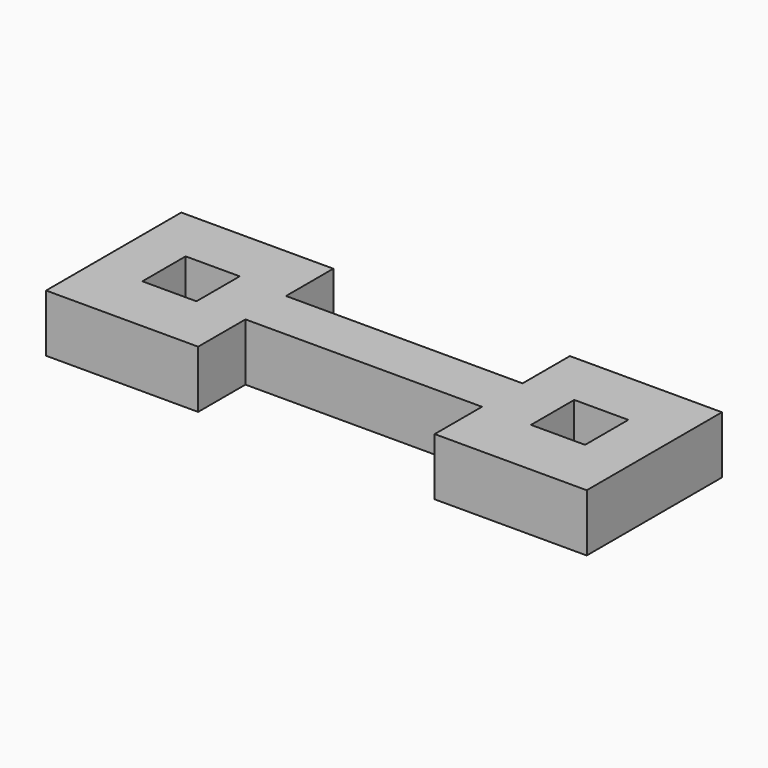
from build123d import *

# Parameters (mm, degrees)
F0_W     = 4.064
F0_H     = 4.064
F1_DEPTH = 4.318


with BuildPart() as f1:
    # F0 (on Top) → F1 (new body)
    with BuildSketch(Plane.XY):
        Polygon((-8.89, -1.905), (8.89, -1.905), (8.89, -6.35), (20.32, -6.35), (20.32, 6.35), (8.89, 6.35), (8.89, 1.905), (-8.89, 1.905), align=None)
        with Locations((14.605, 0.127)):
            Rectangle(F0_W, F0_H, mode=Mode.SUBTRACT)
        Polygon((-8.89, -6.35), (-8.89, -1.905), (-8.89, 1.905), (-8.89, 6.35), (-20.32, 6.35), (-20.32, -6.35), align=None)
        with Locations((-14.605, 0.127)):
            Rectangle(F0_W, F0_H, mode=Mode.SUBTRACT)
    extrude(amount=F1_DEPTH)


solid = f1.part
